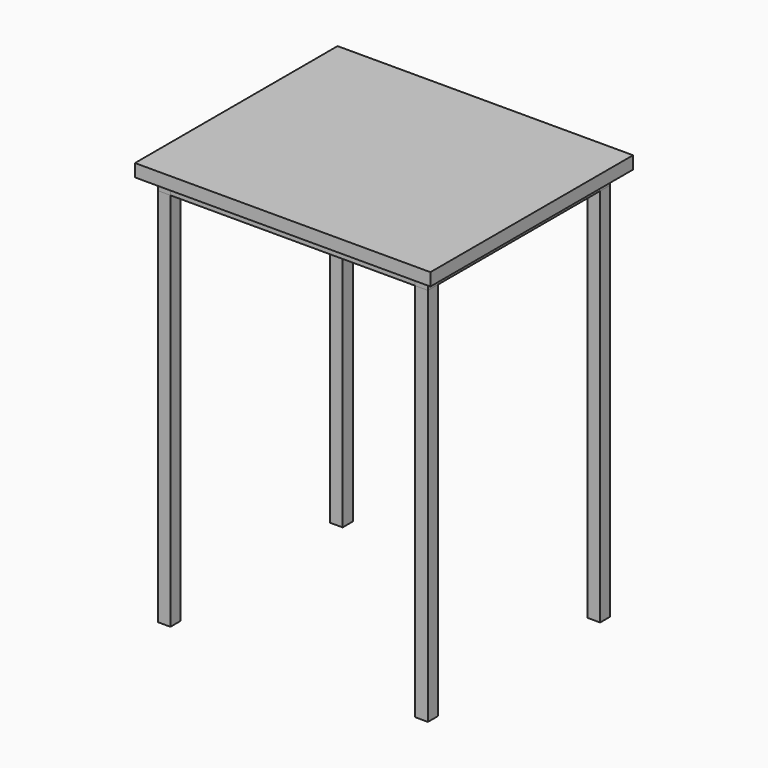
from build123d import *

# Parameters (mm, degrees)
F0_W     = 700
F0_H     = 600
F1_DEPTH = 30
F2_W     = 580
F2_H     = 30
F3_DEPTH = 30
F4_DEPTH = 30
F5_DEPTH = 30
F6_W     = 30
F6_H     = 30
F7_DEPTH = 900


with BuildPart() as f1:
    # F0 (on Top) → F1 (new body)
    with BuildSketch(Plane.XY):
        Rectangle(F0_W, F0_H)
    extrude(amount=F1_DEPTH)


with BuildPart() as f3:
    # F2 (on face) → F3 (new body)
    with BuildSketch(Plane(origin=(0, 0, 0), x_dir=(1, 0, 0), z_dir=(0, 0, -1))):
        with Locations((0, 255)):
            Rectangle(F2_W, F2_H)
        with Locations((0, -255)):
            Rectangle(F2_W, F2_H)
    extrude(amount=F3_DEPTH)


with BuildPart() as f4:
    # F2 (on face) → F4 (new body)
    with BuildSketch(Plane(origin=(0, 0, 0), x_dir=(1, 0, 0), z_dir=(0, 0, -1))):
        Polygon((-290, 240), (-290, 270), (-320, 270), (-320, -270), (-290, -270), (-290, -240), (-290, 0), (-290, 30), align=None)
        Polygon((320, -270), (320, 270), (290, 270), (290, 240), (290, 30), (290, 0), (290, -240), (290, -270), align=None)
    extrude(amount=F4_DEPTH)


with BuildPart() as f5:
    # F2 (on face) → F5 (new body)
    with BuildSketch(Plane(origin=(0, 0, 0), x_dir=(1, 0, 0), z_dir=(0, 0, -1))):
        with Locations((0, 15)):
            Rectangle(F2_W, F2_H)
    extrude(amount=F5_DEPTH)


with BuildPart() as f7:
    # F6 (on face) → F7 (new body)
    with BuildSketch(Plane(origin=(0, 0, -30), x_dir=(1, 0, 0), z_dir=(0, 0, -1))):
        with Locations((-305, 255)):
            Rectangle(F6_W, F6_H)
        with Locations((-305, -255)):
            Rectangle(F6_W, F6_H)
        with Locations((305, -255)):
            Rectangle(F6_W, F6_H)
        with Locations((305, 255)):
            Rectangle(F6_W, F6_H)
    extrude(amount=F7_DEPTH)


solid = Compound([f1.part, f3.part, f4.part, f5.part, f7.part])
